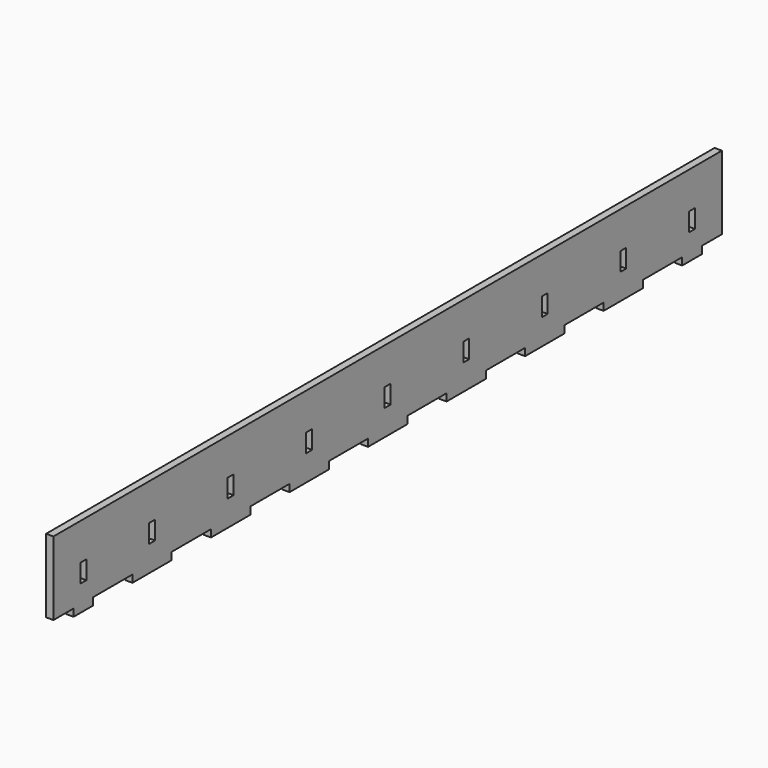
from build123d import *

# Parameters (mm, degrees)
F0_W      = 280
F0_H      = 30
F1_DEPTH  = 3
F2_W      = 20
F2_H      = 3
F3_DEPTH  = 3
F4_W      = 3
F4_H      = 7.5
F5_DEPTH  = 25
F6_W      = 30.25
F6_H      = 30
F7_DEPTH  = 3
F8_W      = 10
F8_H      = 3
F9_DEPTH  = 3
F10_W     = 3
F10_H     = 7.5
F11_DEPTH = 25


with BuildPart() as f1:
    # F0 (on Right) → F1 (new body)
    with BuildSketch(Plane.YZ):
        Rectangle(F0_W, F0_H)
    extrude(amount=F1_DEPTH)

    # F2 (on face) → F3 (join, through all)
    with BuildSketch(Plane.YZ.offset(3)):
        with Locations((120, -16.5)):
            Rectangle(F2_W, F2_H)
        with Locations((80, -16.5)):
            Rectangle(F2_W, F2_H)
        with Locations((40, -16.5)):
            Rectangle(F2_W, F2_H)
        with Locations((0, -16.5)):
            Rectangle(F2_W, F2_H)
        with Locations((-40, -16.5)):
            Rectangle(F2_W, F2_H)
        with Locations((-80, -16.5)):
            Rectangle(F2_W, F2_H)
        with Locations((-120, -16.5)):
            Rectangle(F2_W, F2_H)
    extrude(amount=-F3_DEPTH)

    # F4 (on face) → F5 (cut)
    with BuildSketch(Plane.YZ.offset(3)):
        with Locations((120, -3.75)):
            Rectangle(F4_W, F4_H)
        with Locations((80, -3.75)):
            Rectangle(F4_W, F4_H)
        with Locations((40, -3.75)):
            Rectangle(F4_W, F4_H)
        with Locations((0, -3.75)):
            Rectangle(F4_W, F4_H)
        with Locations((-40, -3.75)):
            Rectangle(F4_W, F4_H)
        with Locations((-80, -3.75)):
            Rectangle(F4_W, F4_H)
        with Locations((-120, -3.75)):
            Rectangle(F4_W, F4_H)
    extrude(amount=-F5_DEPTH, mode=Mode.SUBTRACT)

    # F6 (on face) → F7 (join)
    with BuildSketch(Plane.YZ.offset(3)):
        with Locations((-155.125, 0)):
            Rectangle(F6_W, F6_H)
        with Locations((155.125, 0)):
            Rectangle(F6_W, F6_H)
    extrude(amount=-F7_DEPTH)

    # F8 (on face) → F9 (join)
    with BuildSketch(Plane(origin=(0, 0, 0), x_dir=(0, -1, 0), z_dir=(-1, 0, 0))):
        with Locations((-155, -16.5)):
            Rectangle(F8_W, F8_H)
        with Locations((155, -16.5)):
            Rectangle(F8_W, F8_H)
    extrude(amount=-F9_DEPTH)

    # F10 (on face) → F11 (cut)
    with BuildSketch(Plane(origin=(0, 0, 0), x_dir=(0, -1, 0), z_dir=(-1, 0, 0))):
        with Locations((-155, -3.75)):
            Rectangle(F10_W, F10_H)
        with Locations((155, -3.75)):
            Rectangle(F10_W, F10_H)
    extrude(amount=-F11_DEPTH, mode=Mode.SUBTRACT)


solid = f1.part
